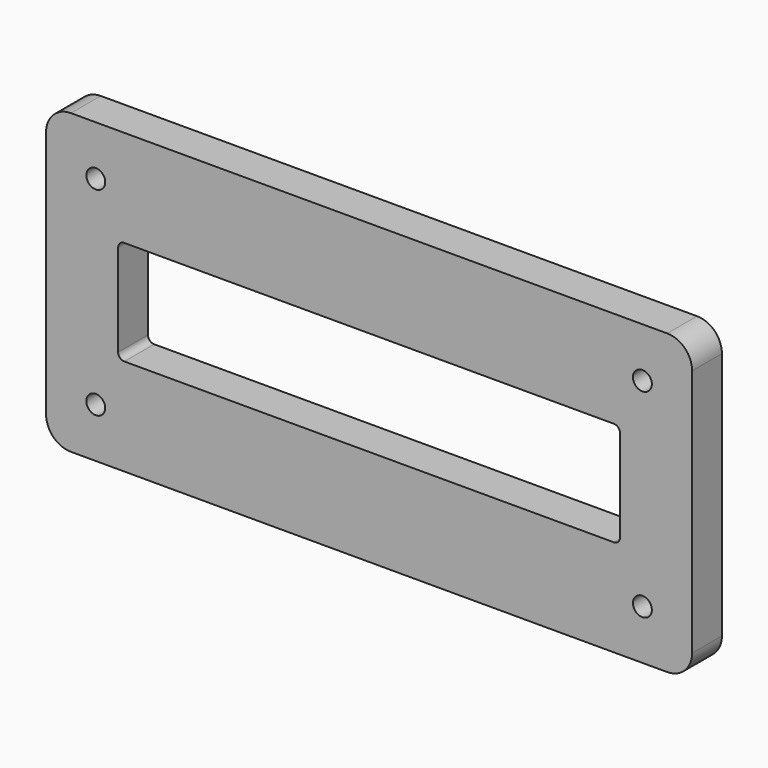
from build123d import *

# Parameters (mm, degrees)
F0_W     = 165.1
F0_H     = 76.2
F0_W_2   = 128.27
F0_H_2   = 26.67
F1_DEPTH = 9.525
F3_D     = 4.826
F4_R     = 1.5875
F5_R     = 6.35


with BuildPart() as f1:
    # F0 (on Front) → F1 (new body)
    with BuildSketch(Plane.XZ):
        Rectangle(F0_W, F0_H)
        Rectangle(F0_W_2, F0_H_2, mode=Mode.SUBTRACT)
    extrude(amount=F1_DEPTH)

    # F3 (through all)
    with Locations(Plane.XZ.offset(9.525)):
        with Locations((-69.85, 25.4), (69.85, 25.4), (69.85, -25.4), (-69.85, -25.4)):
            Hole(F3_D / 2)

    # F4
    f4_edges = [f1.edges().sort_by_distance(p)[0] for p in [
        (-64.135, -4.7625, 13.335),
        (-64.135, -4.7625, -13.335),
        (64.135, -4.7625, -13.335),
        (64.135, -4.7625, 13.335),
    ]]
    fillet(f4_edges, radius=F4_R)

    # F5
    f5_edges = [f1.edges().sort_by_distance(p)[0] for p in [
        (82.55, -4.7625, 38.1),
        (-82.55, -4.7625, 38.1),
        (82.55, -4.7625, -38.1),
        (-82.55, -4.7625, -38.1),
    ]]
    fillet(f5_edges, radius=F5_R)


solid = f1.part
